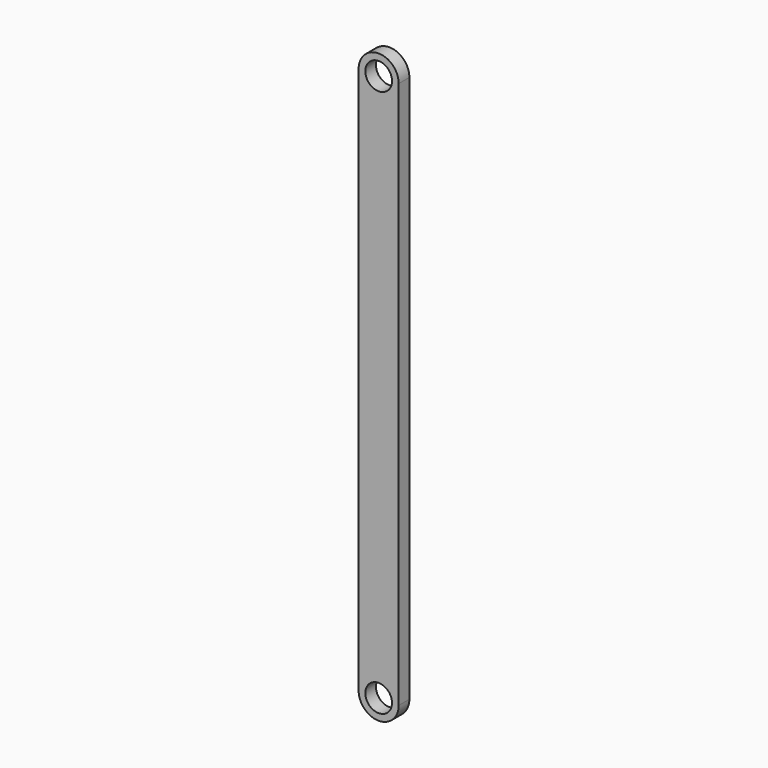
from build123d import *

# Parameters (mm, degrees)
F0_R     = 25
F1_DEPTH = 25


with BuildPart() as f1:
    # F0 (on Front) → F1 (new body)
    with BuildSketch(Plane.XZ):
        with BuildLine():
            ThreePointArc((-37.5, 0), (0, -37.5), (37.5, 0))
            ThreePointArc((37.5, 0), (0, 37.5), (-37.5, 0))
        make_face()
        Circle(F0_R, mode=Mode.SUBTRACT)
        with BuildLine():
            ThreePointArc((-37.5, 1025), (0, 987.5), (37.5, 1025))
            ThreePointArc((37.5, 1025), (0, 1062.5), (-37.5, 1025))
        make_face()
        with Locations((0, 1025)):
            Circle(F0_R, mode=Mode.SUBTRACT)
        with BuildLine():
            ThreePointArc((-37.5, 0), (0, 37.5), (37.5, 0))
            Line((37.5, 0), (37.5, 1025))
            ThreePointArc((37.5, 1025), (0, 987.5), (-37.5, 1025))
            Line((-37.5, 1025), (-37.5, 0))
        make_face()
    extrude(amount=F1_DEPTH)


solid = f1.part
